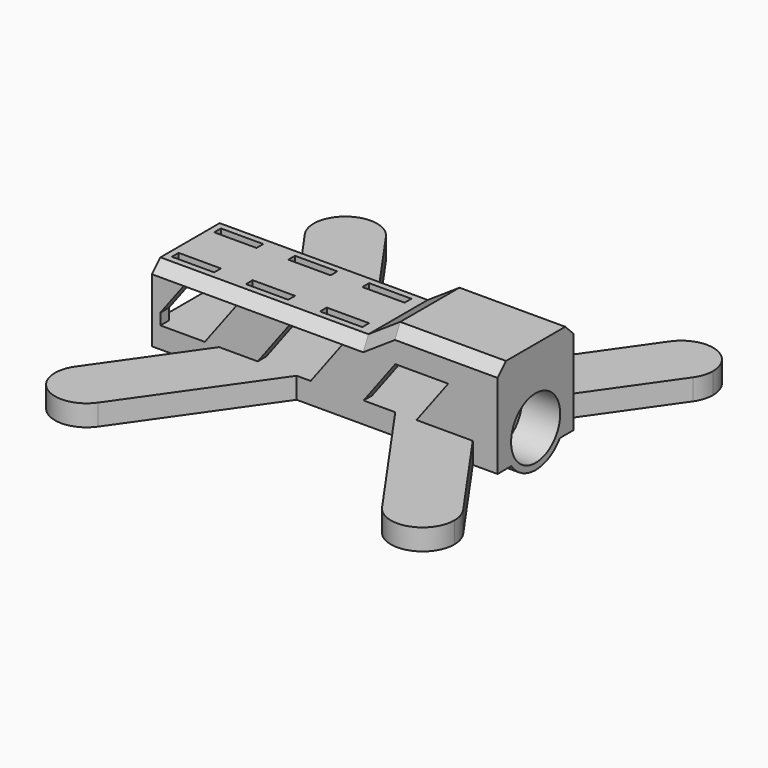
from build123d import *

# Parameters (mm, degrees)
F1_DEPTH  = 45
F2_W      = 216.5675759315
F2_H      = 199.976965785
F2_W_2    = 183.3030277982
F2_H_2    = 45
F3_DEPTH  = 35
F4_W      = 45
F4_H      = 45
F5_DEPTH  = 20
F6_R      = 17.5
F7_DEPTH  = 25
F8_R      = 14.5
F9_DEPTH  = 18
F10_W     = 7
F10_H     = 9
F11_DEPTH = 10
F12_W     = 35
F12_H     = 20
F13_DEPTH = 140
F15_DEPTH = 113.8973534547
F16_SIZE  = 5
F17_SIZE  = 3
F18_W     = 20
F18_H     = 4
F19_DEPTH = 10
F21_DEPTH = 113.8973534547


with BuildPart() as f1:
    # F0 (on Top) → F1 (new body)
    with BuildSketch(Plane.XY):
        Polygon((-91.6515138991, 22.5), (-91.6515138991, -22.5), (-59.9372190952, -22.5), (-23.3139814323, -22.5), (23.3139814323, -22.5), (59.9372190952, -22.5), (91.6515138991, -22.5), (91.6515138991, 22.5), (59.9372190952, 22.5), (23.3139814323, 22.5), (-23.3139814323, 22.5), (-59.9372190952, 22.5), align=None)
        with BuildLine():
            Line((-23.3139814323, -22.5), (-59.9372190952, -22.5))
            Line((-59.9372190952, -22.5), (-91.6515138991, -67.7927069095))
            ThreePointArc((-91.6515138991, -67.7927069095), (-74.8536462422, -62.0905991935), (-64.3642332348, -76.3963534547))
            ThreePointArc((-64.3642332348, -76.3963534547), (-65.0584789736, -80.9069404473), (-67.0769525704, -85))
            Line((-67.0769525704, -85), (-23.3139814323, -22.5))
        make_face()
        with BuildLine():
            ThreePointArc((-64.3642332348, -76.3963534547), (-74.8536462422, -62.0905991935), (-91.6515138991, -67.7927069095))
            Line((-91.6515138991, -67.7927069095), (-67.0769525704, -85))
            ThreePointArc((-67.0769525704, -85), (-65.0584789736, -80.9069404473), (-64.3642332348, -76.3963534547))
        make_face()
        with BuildLine():
            Line((-67.0769525704, -85), (-91.6515138991, -67.7927069095))
            ThreePointArc((-91.6515138991, -67.7927069095), (-87.96787978, -88.6836341191), (-67.0769525704, -85))
        make_face()
        with BuildLine():
            Line((-91.6515138991, 67.7927069095), (-59.9372190952, 22.5))
            Line((-59.9372190952, 22.5), (-23.3139814323, 22.5))
            Line((-23.3139814323, 22.5), (-67.0769525704, 85))
            ThreePointArc((-67.0769525704, 85), (-65.0584789736, 80.9069404473), (-64.3642332348, 76.3963534547))
            ThreePointArc((-64.3642332348, 76.3963534547), (-74.8536462422, 62.0905991935), (-91.6515138991, 67.7927069095))
        make_face()
        with BuildLine():
            Line((59.9372190952, -22.5), (23.3139814323, -22.5))
            Line((23.3139814323, -22.5), (67.0769525704, -85))
            ThreePointArc((67.0769525704, -85), (70.7605866895, -64.1090727904), (91.6515138991, -67.7927069095))
            Line((91.6515138991, -67.7927069095), (59.9372190952, -22.5))
        make_face()
        with BuildLine():
            ThreePointArc((-67.0769525704, 85), (-87.96787978, 88.6836341191), (-91.6515138991, 67.7927069095))
            ThreePointArc((-91.6515138991, 67.7927069095), (-74.8536462422, 62.0905991935), (-64.3642332348, 76.3963534547))
            ThreePointArc((-64.3642332348, 76.3963534547), (-65.0584789736, 80.9069404473), (-67.0769525704, 85))
        make_face()
        with BuildLine():
            ThreePointArc((91.6515138991, -67.7927069095), (70.7605866895, -64.1090727904), (67.0769525704, -85))
            ThreePointArc((67.0769525704, -85), (83.8748202273, -90.702107716), (94.3642332348, -76.3963534547))
            ThreePointArc((94.3642332348, -76.3963534547), (93.669987496, -71.8857664622), (91.6515138991, -67.7927069095))
        make_face()
        with BuildLine():
            Line((67.0769525704, 85), (23.3139814323, 22.5))
            Line((23.3139814323, 22.5), (59.9372190952, 22.5))
            Line((59.9372190952, 22.5), (91.6515138991, 67.7927069095))
            ThreePointArc((91.6515138991, 67.7927069095), (70.7605866895, 64.1090727904), (67.0769525704, 85))
        make_face()
        with BuildLine():
            ThreePointArc((94.3642332348, 76.3963534547), (83.8748202273, 90.702107716), (67.0769525704, 85))
            ThreePointArc((67.0769525704, 85), (70.7605866895, 64.1090727904), (91.6515138991, 67.7927069095))
            ThreePointArc((91.6515138991, 67.7927069095), (93.669987496, 71.8857664622), (94.3642332348, 76.3963534547))
        make_face()
    extrude(amount=F1_DEPTH)

    # F2 (on face) → F3 (cut)
    with BuildSketch(Plane.XY.offset(45)):
        Rectangle(F2_W, F2_H)
        Rectangle(F2_W_2, F2_H_2, mode=Mode.SUBTRACT)
    extrude(amount=-F3_DEPTH, mode=Mode.SUBTRACT)

    # F4 (on face) → F5 (cut)
    with BuildSketch(Plane.YZ.offset(91.6515138991)):
        with Locations((0, 22.5)):
            Rectangle(F4_W, F4_H)
    extrude(amount=-F5_DEPTH, mode=Mode.SUBTRACT)

    # F6 (on face) → F7 (join)
    with BuildSketch(Plane.YZ.offset(71.6515138991)):
        with Locations((0, 10)):
            Circle(F6_R)
    extrude(amount=-F7_DEPTH)

    # F8 (on face) → F9 (cut)
    with BuildSketch(Plane.YZ.offset(71.6515138991)):
        with Locations((0, 10)):
            Circle(F8_R)
    extrude(amount=-F9_DEPTH, mode=Mode.SUBTRACT)

    # F10 (on face) → F11 (cut)
    with BuildSketch(Plane.YZ.offset(53.6515138991)):
        with Locations((0, 24.5)):
            Rectangle(F10_W, F10_H)
    extrude(amount=-F11_DEPTH, mode=Mode.SUBTRACT)

    # F12 (on face) → F13 (cut)
    with BuildSketch(Plane(origin=(-91.6515138991, 0, 0), x_dir=(0, -1, 0), z_dir=(-1, 0, 0))):
        with Locations((0, 20)):
            Rectangle(F12_W, F12_H)
    extrude(amount=-F13_DEPTH, mode=Mode.SUBTRACT)

    # F14 (on face) → F15 (cut, through all)
    with BuildSketch(Plane(origin=(0, 22.5, 0), x_dir=(-1, 0, 0), z_dir=(0, 1, 0))):
        Polygon((-21.6515138991, 69.95960325), (-21.6515138991, 45), (-6.6515138991, 35), (91.6515138991, 35), (106.8655148461, 35), (106.8655148461, 69.95960325), align=None)
    extrude(amount=-F15_DEPTH, mode=Mode.SUBTRACT)

    # F16
    f16_edges = [f1.edges().sort_by_distance(p)[0] for p in [
        (46.651514, 22.5, 45),
        (46.651514, -22.5, 45),
        (14.151514, -22.5, 40),
        (14.151514, 22.5, 40),
        (-42.5, 22.5, 35),
        (-42.5, -22.5, 35),
    ]]
    chamfer(f16_edges, length=F16_SIZE)

    # F17
    f17_edges = [f1.edges().sort_by_distance(p)[0] for p in [
        (-21.651514, 17.5, 30),
        (-21.651514, -17.5, 30),
    ]]
    chamfer(f17_edges, length=F17_SIZE)

    # F18 (on face) → F19 (cut)
    with BuildSketch(Plane.XY.offset(35)):
        with Locations((-78.6515138991, 12.5)):
            Rectangle(F18_W, F18_H)
        with Locations((-43.6515138991, 12.5)):
            Rectangle(F18_W, F18_H)
        with Locations((-8.6515138991, 12.5)):
            Rectangle(F18_W, F18_H)
        with Locations((-78.6515138991, -12.5)):
            Rectangle(F18_W, F18_H)
        with Locations((-8.6515138991, -12.5)):
            Rectangle(F18_W, F18_H)
        with Locations((-43.6515138991, -12.5)):
            Rectangle(F18_W, F18_H)
    extrude(amount=-F19_DEPTH, mode=Mode.SUBTRACT)

    # F20 (on face) → F21 (cut, through all)
    with BuildSketch(Plane.XZ.offset(22.5)):
        Polygon((-51.6515138991, 30), (-76.6515138991, 30), (-87.6515138991, 15.3333333333), (-87.6515138991, 10), (-66.6515138991, 10), align=None)
        Polygon((-1.6515138991, 30), (-26.6515138991, 30), (-41.6515138991, 10), (-23.3139814323, 10), (-16.6515138991, 10), align=None)
        Polygon((48.3484861009, 30), (23.3484861009, 30), (8.3484861009, 10), (23.3139814323, 10), (33.3484861009, 10), align=None)
    extrude(amount=-F21_DEPTH, mode=Mode.SUBTRACT)


solid = f1.part
